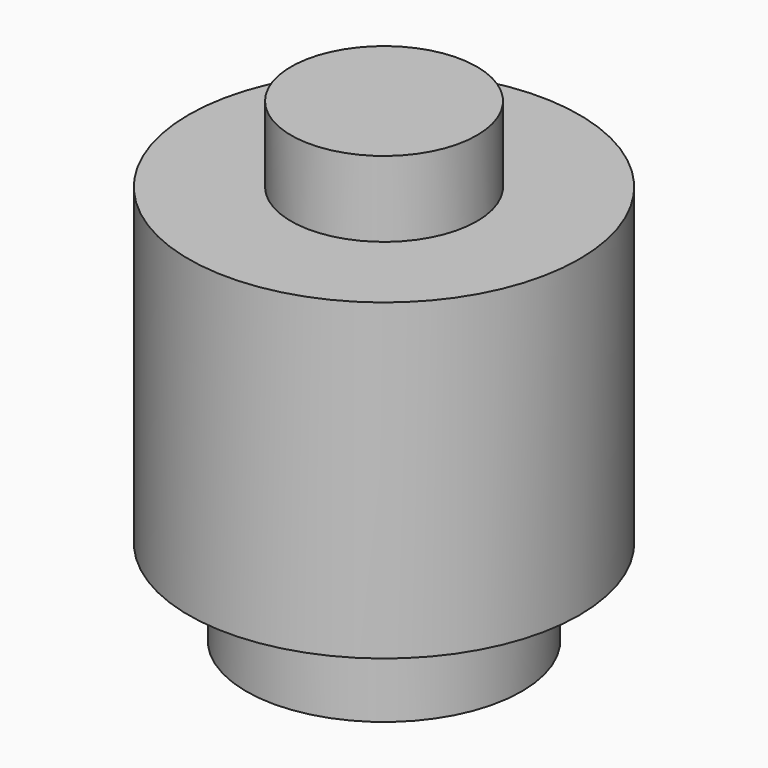
from build123d import *

# Parameters (mm, degrees)
F0_R     = 21.212029
F1_DEPTH = 17.26026
F2_R     = 44.593298
F3_DEPTH = 71.53698
F4_R     = 31.424111
F5_DEPTH = 91.14636


with BuildPart() as f1:
    # F0 (on Top) → F1 (new body)
    with BuildSketch(Plane.XY):
        Circle(F0_R)
    extrude(amount=F1_DEPTH)

    # F2 (on Top) → F3 (join)
    with BuildSketch(Plane.XY):
        Circle(F2_R)
    extrude(amount=-F3_DEPTH)

    # F4 (on Top) → F5 (join)
    with BuildSketch(Plane.XY):
        Circle(F4_R)
    extrude(amount=-F5_DEPTH)


solid = f1.part
